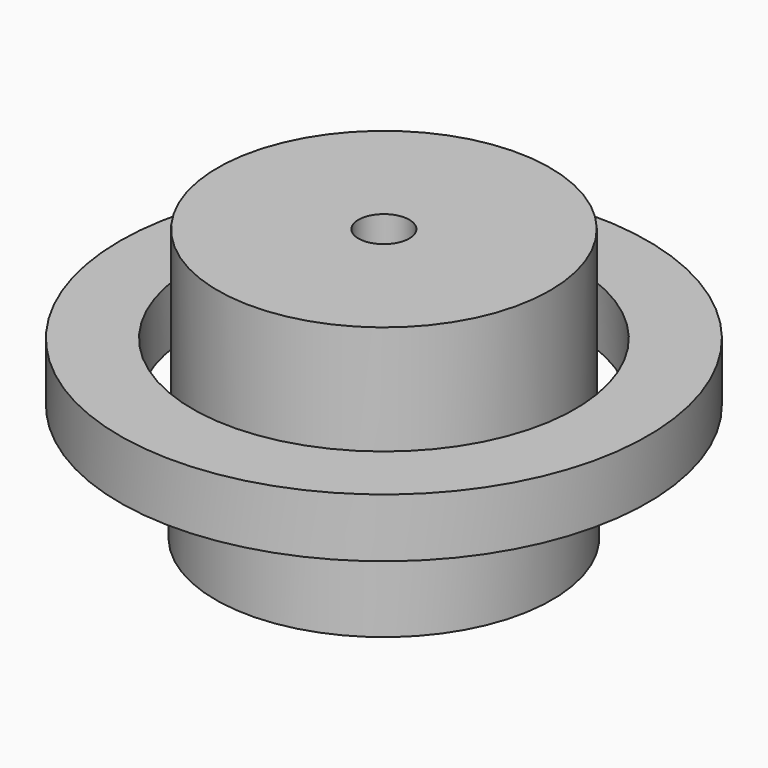
from build123d import *

# Parameters (mm, degrees)
F0_W   = 66.233612
F0_H   = 41.90954
F0_W_2 = 33.412867
F0_H_2 = 27.026193
F0_W_3 = 64.719027
F0_H_3 = 69.265446


with BuildPart() as f1:
    # F0 (on Front) → F1 (revolve)
    with BuildSketch(Plane.XZ):
        with Locations((-25.310703, -4.704534)):
            Rectangle(F0_W, F0_H)
        with Locations((-85.727666, 41.473901)):
            Rectangle(F0_W_2, F0_H_2)
        with Locations((62.946936, 64.574097)):
            Rectangle(F0_W_3, F0_H_3)
    revolve(axis=Axis((18.897112, 0, 28.997758), (0, 0, 1)))


solid = f1.part
